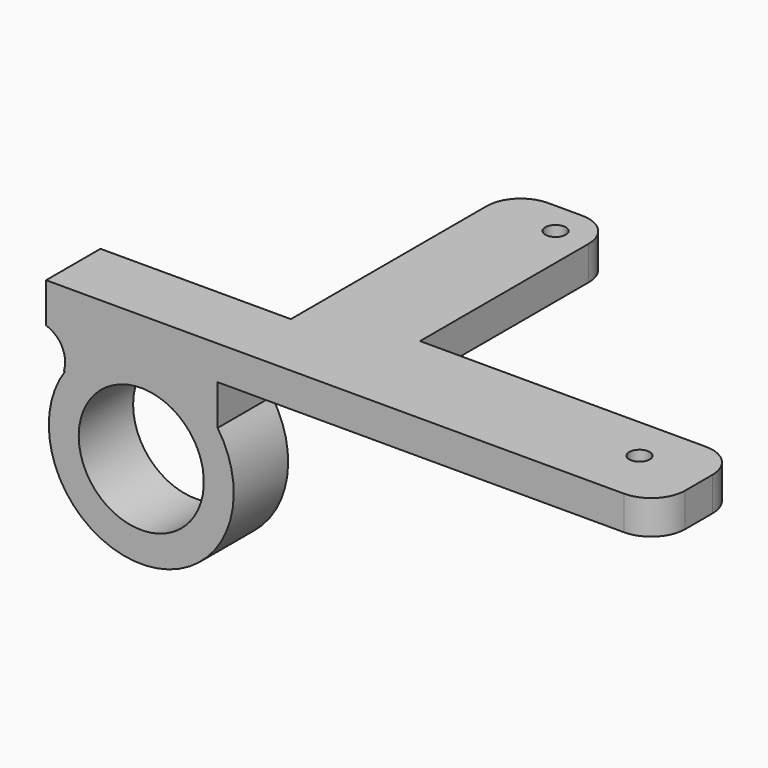
from build123d import *

# Parameters (mm, degrees)
F0_R     = 1.5
F0_W     = 28
F0_H     = 10
F1_DEPTH = 5
F2_R     = 9.2
F3_DEPTH = 10


with BuildPart() as f1:
    # F0 (on Top) → F1 (new body)
    with BuildSketch(Plane.XY):
        with BuildLine():
            Line((-15, 0), (-5, 0))
            ThreePointArc((-5, 0), (-1.4644660941, 1.4644660941), (0, 5))
            Line((0, 5), (0, 10))
            ThreePointArc((0, 10), (-1.4644660941, 13.5355339059), (-5, 15))
            Line((-5, 15), (-47, 15))
            Line((-47, 15), (-47, 46))
            ThreePointArc((-47, 46), (-48.4644660941, 49.5355339059), (-52, 51))
            Line((-52, 51), (-57, 51))
            ThreePointArc((-57, 51), (-60.5355339059, 49.5355339059), (-62, 46))
            Line((-62, 46), (-62, 41))
            Line((-62, 41), (-62, 10))
            Line((-62, 10), (-62, 0))
            Line((-62, 0), (-15, 0))
        make_face()
        with Locations((-9.51, 8.48)):
            Circle(F0_R, mode=Mode.SUBTRACT)
        with Locations((-51.96, 46.1)):
            Circle(F0_R, mode=Mode.SUBTRACT)
        with Locations((-76, 5)):
            Rectangle(F0_W, F0_H)
    extrude(amount=F1_DEPTH)

    # F2 (on face) → F3 (join)
    with BuildSketch(Plane(origin=(0, 10, 0), x_dir=(-1, 0, 0), z_dir=(0, 1, 0))):
        with BuildLine():
            Line((64.7715358439, 0), (64.7715358439, -5.9265657822))
            ThreePointArc((64.7715358439, -5.9265657822), (69.6517209167, -1.5725583485), (76, 0))
            Line((76, 0), (64.7715358439, 0))
        make_face()
        with BuildLine():
            ThreePointArc((64.7715358439, -5.9265657822), (71.9842256365, -26.5935967408), (89.6, -13.6))
            ThreePointArc((89.6, -13.6), (88.9935967408, -9.5842256365), (87.2284641561, -5.9265657822))
            ThreePointArc((87.2284641561, -5.9265657822), (82.3482790833, -1.5725583485), (76, 0))
            ThreePointArc((76, 0), (69.6517209167, -1.5725583485), (64.7715358439, -5.9265657822))
        make_face()
        with Locations((76, -13.6)):
            Circle(F2_R, mode=Mode.SUBTRACT)
        with BuildLine():
            ThreePointArc((76, 0), (82.3482790833, -1.5725583485), (87.2284641561, -5.9265657822))
            Line((87.2284641561, -5.9265657822), (87.3915502282, -5.9265657822))
            ThreePointArc((87.3915502282, -5.9265657822), (87.646444154, -2.8548077569), (90, -0.8644703082))
            Line((90, -0.8644703082), (90, 0))
            Line((90, 0), (76, 0))
        make_face()
    extrude(amount=-F3_DEPTH)


solid = f1.part
